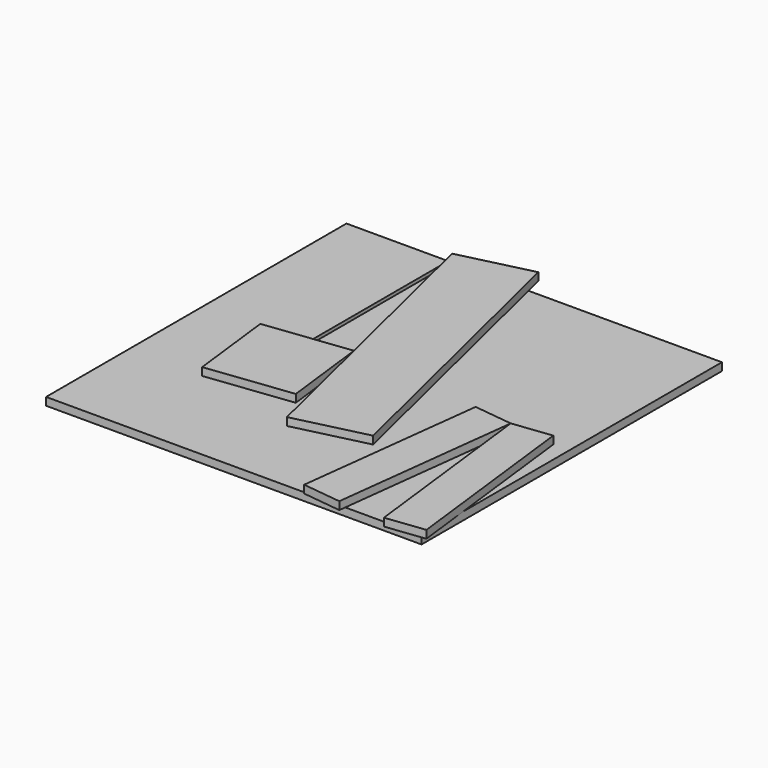
from build123d import *

# Parameters (mm, degrees)
F1_DEPTH = 6.35
F5_DEPTH = 6.35
F7_DEPTH = 6.35
F9_DEPTH = 6.35


with BuildPart() as f1:
    # F0 (on Top) → F1 (new body)
    with BuildSketch(Plane.XY):
        Polygon((-152.4, -152.4), (152.4, -152.4), (152.4, 152.4), (-66.675, 152.4), (-66.675, -12.7), (-69.85, -12.7), (-69.85, 152.4), (-152.4, 152.4), align=None)
    extrude(amount=F1_DEPTH)


with BuildPart() as f5:
    # F4 (on offset) → F5 (new body)
    with BuildSketch(Plane.XY.offset(6.3754)):
        Polygon((-8.0523446654, 166.6298948175), (-66.675, 152.4), (-31.9780227839, 9.4594538767), (-8.2575370649, -88.2614271632), (50.3651182697, -74.0315323457), align=None)
    extrude(amount=F5_DEPTH)


with BuildPart() as f7:
    # F6 (on offset) → F7 (new body)
    with BuildSketch(Plane.XY.offset(6.3754)):
        Polygon((-23.6809195366, -59.8960115006), (-31.9780227839, 9.4594538767), (-66.675, 5.3086), (-101.3334881612, 1.1623506294), (-93.0363849139, -68.1931147479), align=None)
    extrude(amount=F7_DEPTH)


with BuildPart() as f9:
    # F8 (on offset) → F9 (new body)
    with BuildSketch(Plane.XY.offset(6.3754)):
        Polygon((139.4752115351, -2.578589433), (107.95, -6.35), (126.0527707214, -157.6710153687), (157.5779822566, -153.8996048017), align=None)
    extrude(amount=F9_DEPTH)


with BuildPart() as f9b:
    # F8 (on offset) → F9, piece 2 (new body)
    with BuildSketch(Plane.XY.offset(6.3754)):
        Polygon((89.8472292786, -157.6710153687), (107.95, -6.35), (76.4247884649, -2.578589433), (58.3220177434, -153.8996048017), align=None)
    extrude(amount=F9_DEPTH)


solid = Compound([f1.part, f5.part, f7.part, f9.part, f9b.part])
